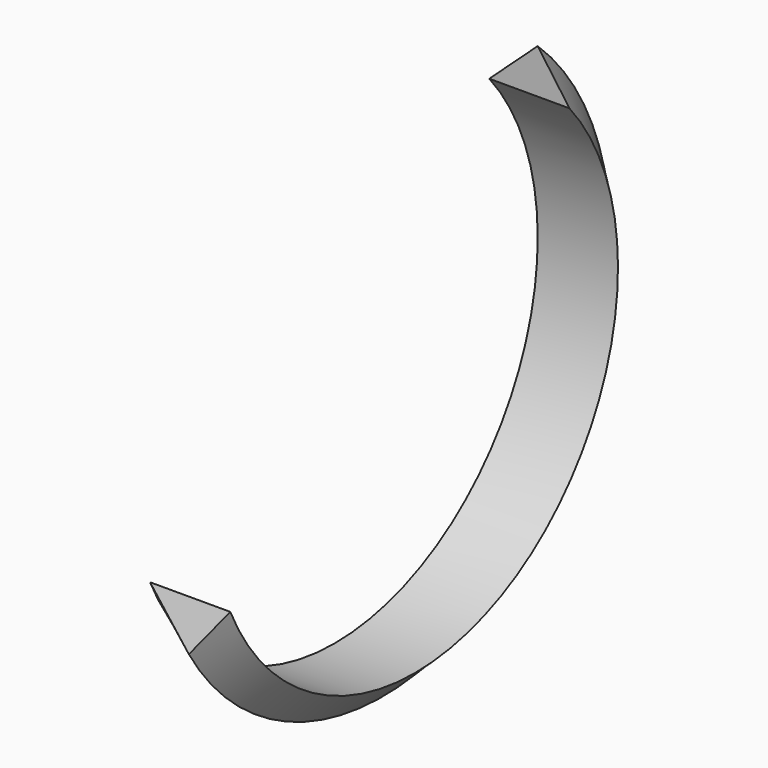
from build123d import *


with BuildPart() as f2:
    # F2: sweep along a path in F1
    with BuildLine(Plane.YZ) as f2_path:
        ThreePointArc((-52.148987, -51.099528), (-41.130785, -43.545617), (-50.117217, -33.660963))
    # F0 (on Front) → F2 (sweep)
    with BuildSketch(Plane.XZ):
        Polygon((-20.723848, 0), (-28.935188, 11.480994), (-41.447699, 0), align=None)
    sweep(path=f2_path.line)


solid = f2.part
